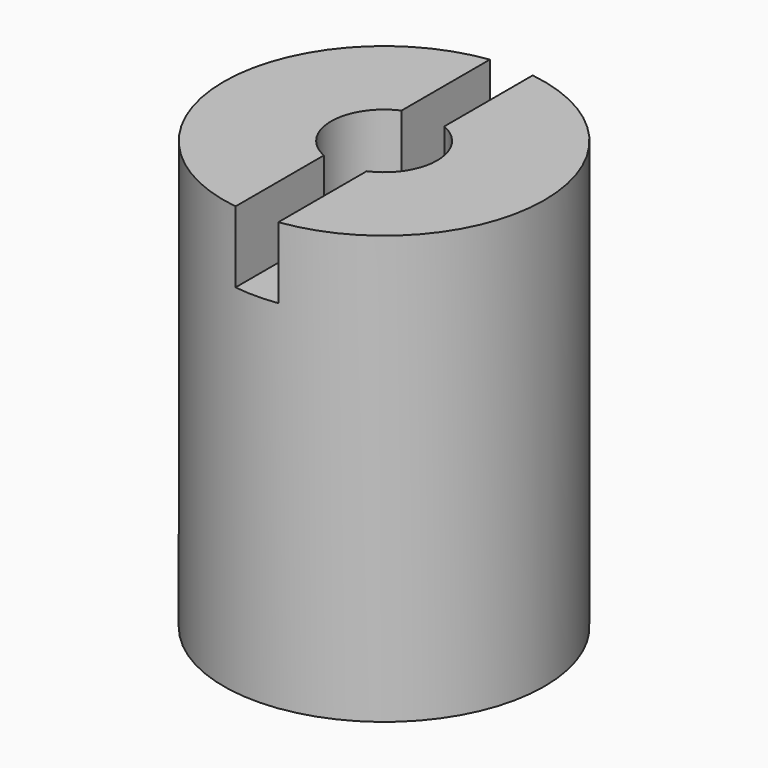
from build123d import *

# Parameters (mm, degrees)
F0_R     = 7.1374
F0_R_2   = 2.3622
F1_DEPTH = 19.05
F3_DEPTH = 3.175


with BuildPart() as f1:
    # F0 (on Top) → F1 (new body)
    with BuildSketch(Plane.XY):
        Circle(F0_R)
        Circle(F0_R_2, mode=Mode.SUBTRACT)
    extrude(amount=F1_DEPTH)

    # F2 (on face) → F3 (cut)
    with BuildSketch(Plane.XY.offset(19.05)):
        with BuildLine():
            ThreePointArc((0.9525, 7.073557981), (0, 7.1374), (-0.9525, 7.073557981))
            Line((-0.9525, 7.073557981), (-0.9525, 2.161650432))
            ThreePointArc((-0.9525, 2.161650432), (0, 2.3622), (0.9525, 2.161650432))
            Line((0.9525, 2.161650432), (0.9525, 7.073557981))
        make_face()
        with BuildLine():
            Line((-0.9525, -2.161650432), (-0.9525, -7.073557981))
            ThreePointArc((-0.9525, -7.073557981), (0, -7.1374), (0.9525, -7.073557981))
            Line((0.9525, -7.073557981), (0.9525, -2.161650432))
            ThreePointArc((0.9525, -2.161650432), (0, -2.3622), (-0.9525, -2.161650432))
        make_face()
    extrude(amount=-F3_DEPTH, mode=Mode.SUBTRACT)


solid = f1.part
